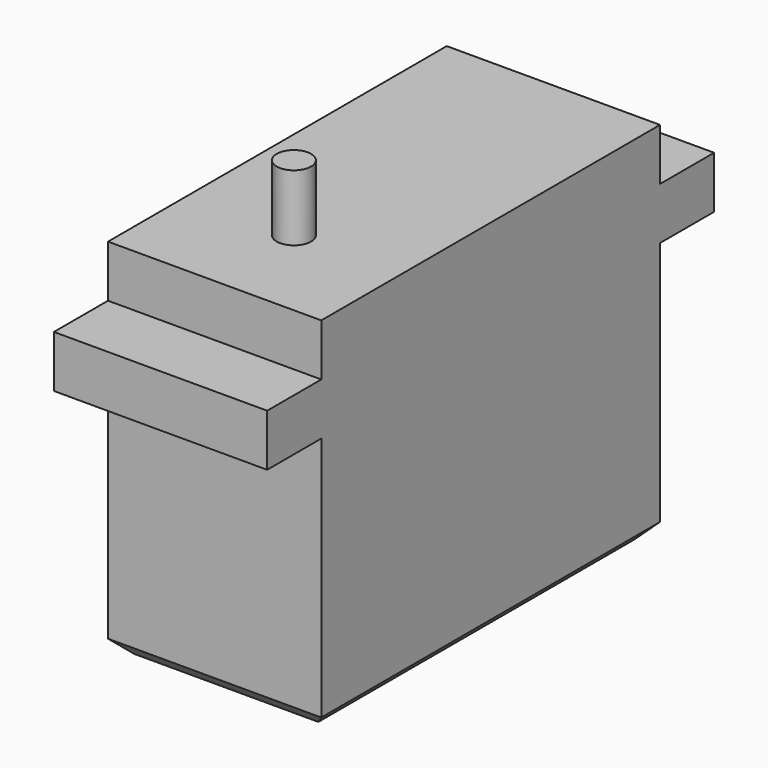
from build123d import *

# Parameters (mm, degrees)
F0_W     = 20.5
F0_H     = 40.7
F1_DEPTH = 35
F2_R     = 1.651
F3_DEPTH = 6.35
F4_W     = 20.5
F4_H     = 5
F5_DEPTH = 6.5
F6_W     = 20.5
F6_H     = 5
F7_DEPTH = 6.5
F8_SIZE  = 1.397


with BuildPart() as f1:
    # F0 (on Top) → F1 (new body)
    with BuildSketch(Plane.XY):
        Rectangle(F0_W, F0_H)
    extrude(amount=F1_DEPTH)

    # F2 (on face) → F3 (join)
    with BuildSketch(Plane.XY.offset(35)):
        with Locations((0, -10.825)):
            Circle(F2_R)
    extrude(amount=F3_DEPTH)

    # F4 (on face) → F5 (join)
    with BuildSketch(Plane.XZ.offset(20.35)):
        with Locations((0, 27.5)):
            Rectangle(F4_W, F4_H)
    extrude(amount=F5_DEPTH)

    # F6 (on face) → F7 (join)
    with BuildSketch(Plane(origin=(0, 20.35, 0), x_dir=(-1, 0, 0), z_dir=(0, 1, 0))):
        with Locations((0, 27.5)):
            Rectangle(F6_W, F6_H)
    extrude(amount=F7_DEPTH)

    # F8
    f8_edges = [f1.edges().sort_by_distance(p)[0] for p in [
        (0, -20.35, 0),
        (10.25, 0, 0),
        (-10.25, 0, 0),
        (0, 20.35, 0),
    ]]
    chamfer(f8_edges, length=F8_SIZE)


solid = f1.part
